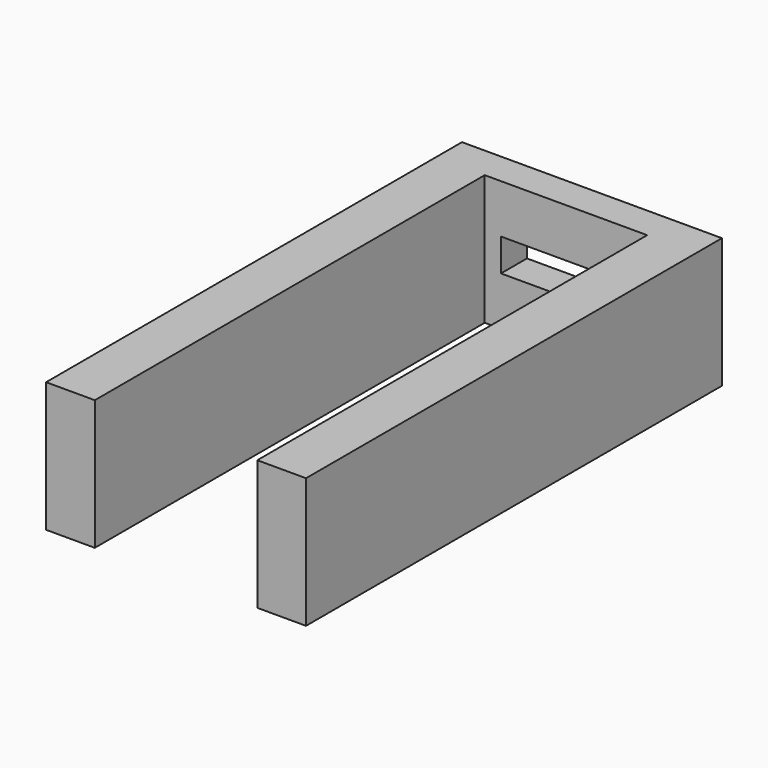
from build123d import *

# Parameters (mm, degrees)
F0_W     = 9.525
F0_H     = 25.4
F0_W_2   = 25.4
F0_H_2   = 9.525
F1_DEPTH = 6.35
F2_DEPTH = 101.6


with BuildPart() as f1:
    # F0 (on Front) → F1 (new body)
    with BuildSketch(Plane.XZ):
        with Locations((20.6375, 0)):
            Rectangle(F0_W, F0_H)
        Polygon((12.7, -12.7), (15.875, -12.7), (15.875, 12.7), (12.7, 12.7), (12.7, 3.175), (12.7, -3.175), align=None)
        with Locations((0, -7.9375)):
            Rectangle(F0_W_2, F0_H_2)
        Polygon((-15.875, -12.7), (-12.7, -12.7), (-12.7, -3.175), (-12.7, 3.175), (-12.7, 12.7), (-15.875, 12.7), align=None)
        with Locations((0, 7.9375)):
            Rectangle(F0_W_2, F0_H_2)
        with Locations((-20.6375, 0)):
            Rectangle(F0_W, F0_H)
    extrude(amount=F1_DEPTH)

    # F0 (on Front) → F2 (join)
    with BuildSketch(Plane.XZ):
        with Locations((20.6375, 0)):
            Rectangle(F0_W, F0_H)
        with Locations((-20.6375, 0)):
            Rectangle(F0_W, F0_H)
    extrude(amount=F2_DEPTH)


solid = f1.part
